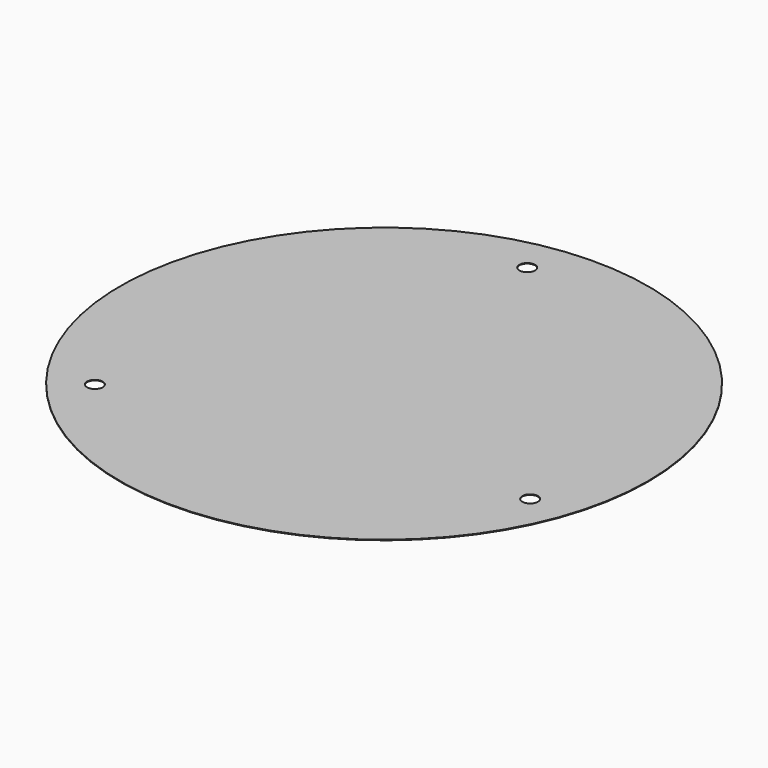
from build123d import *

# Parameters (mm, degrees)
F0_R     = 57.15
F0_R_2   = 1.6891
F1_DEPTH = 0.127


with BuildPart() as f1:
    # F0 (on Top) → F1 (new body)
    with BuildSketch(Plane.XY):
        Circle(F0_R)
        with Locations((-38.000326, -30.76843)):
            Circle(F0_R_2, mode=Mode.SUBTRACT)
        with BuildLine():
            Line((31.75, -43.267109), (-31.75, -43.267109))
            ThreePointArc((-31.75, -43.267109), (0, -11.517109), (31.75, -43.267109))
        make_face(mode=Mode.SUBTRACT)
        with Locations((45.646405, -17.525033)):
            Circle(F0_R_2, mode=Mode.SUBTRACT)
        with Locations((-7.646079, 48.293462)):
            Circle(F0_R_2, mode=Mode.SUBTRACT)
        with BuildLine():
            ThreePointArc((31.75, -43.267109), (0, -11.517109), (-31.75, -43.267109))
            Line((-31.75, -43.267109), (31.75, -43.267109))
        make_face()
    extrude(amount=F1_DEPTH)


solid = f1.part
